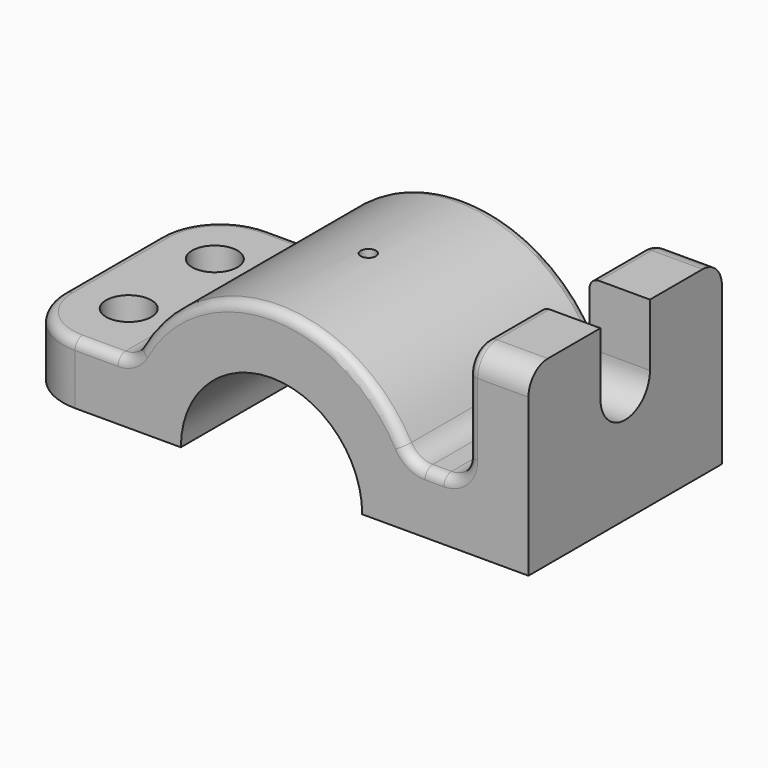
from build123d import *

# Parameters (mm, degrees)
F1_DEPTH = 25.4
F2_R     = 4.7625
F3_DEPTH = 12.701
F5_DEPTH = 12.7
F6_R     = 1.5875
F7_DEPTH = 38.101
F8_R     = 5.08
F9_R     = 12.7
F10_R    = 2.032


with BuildPart() as f1:
    # F0 (on Front) → F1 (new body, symmetric)
    with BuildSketch(Plane.XZ):
        with BuildLine():
            Line((-53.975, 0), (-31.75, 0))
            ThreePointArc((-31.75, 0), (-31.0802754355, 6.4868311871), (-29.099355663, 12.7))
            Line((-29.099355663, 12.7), (-53.975, 12.7))
            Line((-53.975, 12.7), (-53.975, 0))
        make_face()
        with BuildLine():
            ThreePointArc((29.099355663, 12.7), (31.0802754355, 6.4868311871), (31.75, 0))
            Line((31.75, 0), (53.975, 0))
            Line((53.975, 0), (53.975, 38.1))
            Line((53.975, 38.1), (41.275, 38.1))
            Line((41.275, 38.1), (41.275, 12.7))
            Line((41.275, 12.7), (29.099355663, 12.7))
        make_face()
        with BuildLine():
            ThreePointArc((-14.1990316571, 12.7), (0, 19.05), (14.1990316571, 12.7))
            Line((14.1990316571, 12.7), (29.099355663, 12.7))
            ThreePointArc((29.099355663, 12.7), (0, 31.75), (-29.099355663, 12.7))
            Line((-29.099355663, 12.7), (-14.1990316571, 12.7))
        make_face()
        with BuildLine():
            ThreePointArc((14.1990316571, 12.7), (17.7959834382, 6.7974608102), (19.05, 0))
            Line((19.05, 0), (31.75, 0))
            ThreePointArc((31.75, 0), (31.0802754355, 6.4868311871), (29.099355663, 12.7))
            Line((29.099355663, 12.7), (14.1990316571, 12.7))
        make_face()
        with BuildLine():
            Line((-31.75, 0), (-19.05, 0))
            ThreePointArc((-19.05, 0), (-17.7959834382, 6.7974608102), (-14.1990316571, 12.7))
            Line((-14.1990316571, 12.7), (-29.099355663, 12.7))
            ThreePointArc((-29.099355663, 12.7), (-31.0802754355, 6.4868311871), (-31.75, 0))
        make_face()
    extrude(amount=F1_DEPTH, both=True)

    # F2 (on face) → F3 (cut, through all)
    with BuildSketch(Plane.XY.offset(12.7)):
        with Locations((-41.275, 11.3)):
            Circle(F2_R)
        with Locations((-41.275, -11.3)):
            Circle(F2_R)
    extrude(amount=-F3_DEPTH, mode=Mode.SUBTRACT)

    # F4 (on face) → F5 (cut, through all)
    with BuildSketch(Plane.YZ.offset(53.975)):
        with BuildLine():
            Line((6.5, 38.1), (-6.5, 38.1))
            Line((-6.5, 38.1), (-6.5, 25))
            ThreePointArc((-6.5, 25), (0, 31.5), (6.5, 25))
            Line((6.5, 25), (6.5, 38.1))
        make_face()
        with BuildLine():
            ThreePointArc((6.5, 25), (0, 31.5), (-6.5, 25))
            Line((-6.5, 25), (6.5, 25))
        make_face()
        with BuildLine():
            Line((6.5, 25), (-6.5, 25))
            ThreePointArc((-6.5, 25), (0, 18.5), (6.5, 25))
        make_face()
    extrude(amount=-F5_DEPTH, mode=Mode.SUBTRACT)

    # F6 (on face) → F7 (cut, through all)
    with BuildSketch(Plane(origin=(0, 0, 0), x_dir=(1, 0, 0), z_dir=(0, 0, -1))):
        Circle(F6_R)
    extrude(amount=-F7_DEPTH, mode=Mode.SUBTRACT)

    # F8
    f8_edges = [f1.edges().sort_by_distance(p)[0] for p in [
        (47.625, -25.4, 38.1),
        (47.625, 25.4, 38.1),
        (29.099356, 0, 12.7),
        (41.275, 0, 12.7),
        (-29.099356, 0, 12.7),
    ]]
    fillet(f8_edges, radius=F8_R)

    # F9
    f9_edges = [f1.edges().sort_by_distance(p)[0] for p in [
        (-53.975, 25.4, 6.35),
        (-53.975, -25.4, 6.35),
    ]]
    fillet(f9_edges, radius=F9_R)

    # F10
    f10_edges = [f1.edges().sort_by_distance(p)[0] for p in [
        (-36.7645, -25.4, 12.7),
    ]]
    fillet(f10_edges, radius=F10_R)


solid = f1.part
